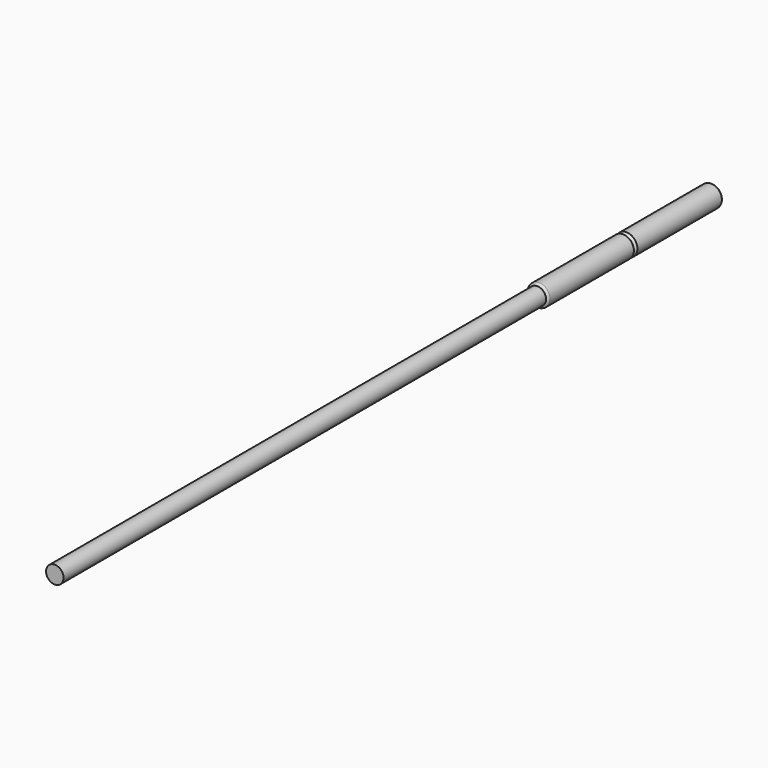
from build123d import *

# Parameters (mm, degrees)
F0_R      = 5
F1_DEPTH  = 50
F2_R      = 1
F3_SIZE   = 1
F1_FACE_R = 4
F5_DEPTH  = 276


with BuildPart() as f1:
    # F0 (on Front) → F1 (new body)
    with BuildSketch(Plane.XZ):
        Circle(F0_R)
    extrude(amount=F1_DEPTH)

    # F2
    f2_edges = [f1.edges().sort_by_distance(p)[0] for p in [
        (-5, -50, 0),
    ]]
    fillet(f2_edges, radius=F2_R)

    # F3
    f3_edges = [f1.edges().sort_by_distance(p)[0] for p in [
        (-5, 0, 0),
    ]]
    chamfer(f3_edges, length=F3_SIZE)


with BuildPart() as f4_1:
    # F4: instance of F1
    add(f1.part.mirror(Plane.XZ))


with BuildPart() as f5:
    # F1_face (on face) → F5 (new body)
    with BuildSketch(Plane.XZ.offset(50)):
        Circle(F1_FACE_R)
    extrude(amount=F5_DEPTH)


solid = Compound([f1.part, f4_1.part, f5.part])
